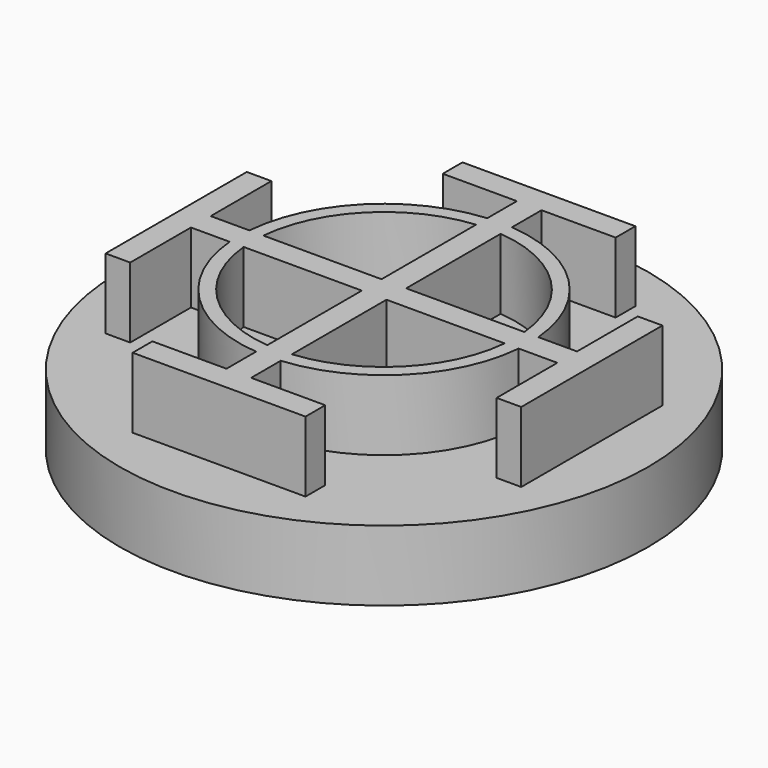
from build123d import *

# Parameters (mm, degrees)
F0_R     = 7.5
F1_DEPTH = 2
F3_DEPTH = 2


with BuildPart() as f1:
    # F0 (on Top) → F1 (new body)
    with BuildSketch(Plane.XY):
        Circle(F0_R)
    extrude(amount=F1_DEPTH)

    # F2 (on face) → F3 (join)
    with BuildSketch(Plane.XY.offset(2)):
        with BuildLine():
            Line((-0.35, 5.853991), (-2.454586, 5.853991))
            Line((-2.454586, 5.853991), (-2.454586, 5.153991))
            Line((-2.454586, 5.153991), (-0.35, 5.153991))
            Line((-0.35, 5.153991), (-0.35, 4.102806))
            ThreePointArc((-0.35, 4.102806), (-2.911659, 2.911659), (-4.102806, 0.35))
            Line((-4.102806, 0.35), (-5.201799, 0.35))
            Line((-5.201799, 0.35), (-5.201799, 2.505629))
            Line((-5.201799, 2.505629), (-5.901799, 2.505629))
            Line((-5.901799, 2.505629), (-5.901799, 0))
            Line((-5.901799, 0), (-5.901799, -2.505629))
            Line((-5.901799, -2.505629), (-5.201799, -2.505629))
            Line((-5.201799, -2.505629), (-5.201799, -0.35))
            Line((-5.201799, -0.35), (-4.102806, -0.35))
            ThreePointArc((-4.102806, -0.35), (-2.911659, -2.911659), (-0.35, -4.102806))
            Line((-0.35, -4.102806), (-0.35, -5.153991))
            Line((-0.35, -5.153991), (-2.454586, -5.153991))
            Line((-2.454586, -5.153991), (-2.454586, -5.853991))
            Line((-2.454586, -5.853991), (0, -5.853991))
            Line((0, -5.853991), (2.454586, -5.853991))
            Line((2.454586, -5.853991), (2.454586, -5.153991))
            Line((2.454586, -5.153991), (0.35, -5.153991))
            Line((0.35, -5.153991), (0.35, -4.102806))
            ThreePointArc((0.35, -4.102806), (2.911659, -2.911659), (4.102806, -0.35))
            Line((4.102806, -0.35), (5.201799, -0.35))
            Line((5.201799, -0.35), (5.201799, -2.505629))
            Line((5.201799, -2.505629), (5.901799, -2.505629))
            Line((5.901799, -2.505629), (5.901799, 0))
            Line((5.901799, 0), (5.901799, 2.505629))
            Line((5.901799, 2.505629), (5.201799, 2.505629))
            Line((5.201799, 2.505629), (5.201799, 0.35))
            Line((5.201799, 0.35), (4.102806, 0.35))
            ThreePointArc((4.102806, 0.35), (2.911659, 2.911659), (0.35, 4.102806))
            Line((0.35, 4.102806), (0.35, 5.153991))
            Line((0.35, 5.153991), (2.454586, 5.153991))
            Line((2.454586, 5.153991), (2.454586, 5.853991))
            Line((2.454586, 5.853991), (0, 5.853991))
            Line((0, 5.853991), (-0.35, 5.853991))
        make_face()
        with BuildLine():
            Line((-3.70601, -0.35), (-0.35, -0.35))
            Line((-0.35, -0.35), (-0.35, -3.70601))
            ThreePointArc((-0.35, -3.70601), (-2.632205, -2.632205), (-3.70601, -0.35))
        make_face(mode=Mode.SUBTRACT)
        with BuildLine():
            Line((0.35, -3.70601), (0.35, -0.35))
            Line((0.35, -0.35), (3.70601, -0.35))
            ThreePointArc((3.70601, -0.35), (2.632205, -2.632205), (0.35, -3.70601))
        make_face(mode=Mode.SUBTRACT)
        with BuildLine():
            Line((-0.35, 3.70601), (-0.35, 0.35))
            Line((-0.35, 0.35), (-3.70601, 0.35))
            ThreePointArc((-3.70601, 0.35), (-2.632205, 2.632205), (-0.35, 3.70601))
        make_face(mode=Mode.SUBTRACT)
        with BuildLine():
            Line((3.70601, 0.35), (0.35, 0.35))
            Line((0.35, 0.35), (0.35, 3.70601))
            ThreePointArc((0.35, 3.70601), (2.632205, 2.632205), (3.70601, 0.35))
        make_face(mode=Mode.SUBTRACT)
    extrude(amount=F3_DEPTH)


solid = f1.part
